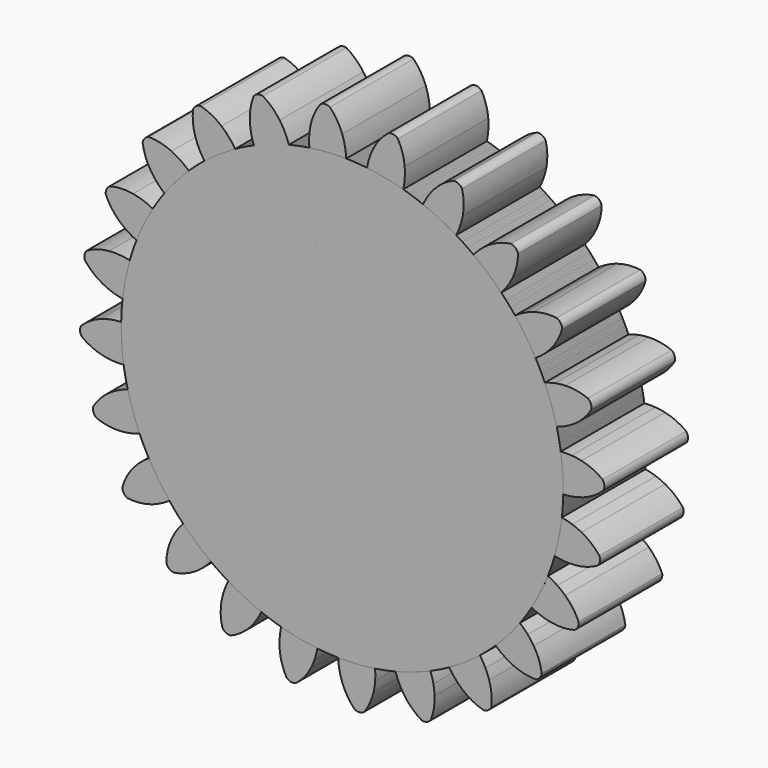
from build123d import *

# Parameters (mm, degrees)
F1_DEPTH = 1
F2_COUNT = 24
F2_ANGLE = 345


with BuildPart() as f1:
    # F0 (on Front) → F1 (new body)
    with BuildSketch(Plane.XZ):
        with BuildLine():
            ThreePointArc((-0.314005, 2.091561), (-1.380055, -1.602708), (2.115, 0))
            ThreePointArc((2.115, 0), (1.509016, 1.481923), (0.038315, 2.114653))
            ThreePointArc((0.038315, 2.114653), (-0.138328, 2.110472), (-0.314005, 2.091561))
        make_face()
        with BuildLine():
            ThreePointArc((-0.314005, 2.091561), (-0.138328, 2.110472), (0.038315, 2.114653))
            ThreePointArc((0.038315, 2.114653), (0.0268, 2.213826), (0, 2.31))
            Line((0, 2.31), (-0.315279, 2.195248))
            ThreePointArc((-0.315279, 2.195248), (-0.316746, 2.143378), (-0.314005, 2.091561))
        make_face()
        with BuildLine():
            Line((-0.315279, 2.195248), (0, 2.31))
            ThreePointArc((0, 2.31), (-0.048916, 2.409854), (-0.117686, 2.497228))
            ThreePointArc((-0.117686, 2.497228), (-0.164422, 2.508596), (-0.209274, 2.491225))
            ThreePointArc((-0.209274, 2.491225), (-0.266052, 2.395622), (-0.301516, 2.290238))
            ThreePointArc((-0.301516, 2.290238), (-0.310181, 2.243001), (-0.315279, 2.195248))
        make_face()
    extrude(amount=F1_DEPTH)


with BuildPart() as f2_1:
    # F2: instance of F1
    add(f1.part.rotate(Axis((0, 0, 0), (0, 1, 0)), 1 * F2_ANGLE / (F2_COUNT - 1)))


with BuildPart() as f2_2:
    # F2: instance of F1
    add(f1.part.rotate(Axis((0, 0, 0), (0, 1, 0)), 2 * F2_ANGLE / (F2_COUNT - 1)))


with BuildPart() as f2_3:
    # F2: instance of F1
    add(f1.part.rotate(Axis((0, 0, 0), (0, 1, 0)), 3 * F2_ANGLE / (F2_COUNT - 1)))


with BuildPart() as f2_4:
    # F2: instance of F1
    add(f1.part.rotate(Axis((0, 0, 0), (0, 1, 0)), 4 * F2_ANGLE / (F2_COUNT - 1)))


with BuildPart() as f2_5:
    # F2: instance of F1
    add(f1.part.rotate(Axis((0, 0, 0), (0, 1, 0)), 5 * F2_ANGLE / (F2_COUNT - 1)))


with BuildPart() as f2_6:
    # F2: instance of F1
    add(f1.part.rotate(Axis((0, 0, 0), (0, 1, 0)), 6 * F2_ANGLE / (F2_COUNT - 1)))


with BuildPart() as f2_7:
    # F2: instance of F1
    add(f1.part.rotate(Axis((0, 0, 0), (0, 1, 0)), 7 * F2_ANGLE / (F2_COUNT - 1)))


with BuildPart() as f2_8:
    # F2: instance of F1
    add(f1.part.rotate(Axis((0, 0, 0), (0, 1, 0)), 8 * F2_ANGLE / (F2_COUNT - 1)))


with BuildPart() as f2_9:
    # F2: instance of F1
    add(f1.part.rotate(Axis((0, 0, 0), (0, 1, 0)), 9 * F2_ANGLE / (F2_COUNT - 1)))


with BuildPart() as f2_10:
    # F2: instance of F1
    add(f1.part.rotate(Axis((0, 0, 0), (0, 1, 0)), 10 * F2_ANGLE / (F2_COUNT - 1)))


with BuildPart() as f2_11:
    # F2: instance of F1
    add(f1.part.rotate(Axis((0, 0, 0), (0, 1, 0)), 11 * F2_ANGLE / (F2_COUNT - 1)))


with BuildPart() as f2_12:
    # F2: instance of F1
    add(f1.part.rotate(Axis((0, 0, 0), (0, 1, 0)), 12 * F2_ANGLE / (F2_COUNT - 1)))


with BuildPart() as f2_13:
    # F2: instance of F1
    add(f1.part.rotate(Axis((0, 0, 0), (0, 1, 0)), 13 * F2_ANGLE / (F2_COUNT - 1)))


with BuildPart() as f2_14:
    # F2: instance of F1
    add(f1.part.rotate(Axis((0, 0, 0), (0, 1, 0)), 14 * F2_ANGLE / (F2_COUNT - 1)))


with BuildPart() as f2_15:
    # F2: instance of F1
    add(f1.part.rotate(Axis((0, 0, 0), (0, 1, 0)), 15 * F2_ANGLE / (F2_COUNT - 1)))


with BuildPart() as f2_16:
    # F2: instance of F1
    add(f1.part.rotate(Axis((0, 0, 0), (0, 1, 0)), 16 * F2_ANGLE / (F2_COUNT - 1)))


with BuildPart() as f2_17:
    # F2: instance of F1
    add(f1.part.rotate(Axis((0, 0, 0), (0, 1, 0)), 17 * F2_ANGLE / (F2_COUNT - 1)))


with BuildPart() as f2_18:
    # F2: instance of F1
    add(f1.part.rotate(Axis((0, 0, 0), (0, 1, 0)), 18 * F2_ANGLE / (F2_COUNT - 1)))


with BuildPart() as f2_19:
    # F2: instance of F1
    add(f1.part.rotate(Axis((0, 0, 0), (0, 1, 0)), 19 * F2_ANGLE / (F2_COUNT - 1)))


with BuildPart() as f2_20:
    # F2: instance of F1
    add(f1.part.rotate(Axis((0, 0, 0), (0, 1, 0)), 20 * F2_ANGLE / (F2_COUNT - 1)))


with BuildPart() as f2_21:
    # F2: instance of F1
    add(f1.part.rotate(Axis((0, 0, 0), (0, 1, 0)), 21 * F2_ANGLE / (F2_COUNT - 1)))


with BuildPart() as f2_22:
    # F2: instance of F1
    add(f1.part.rotate(Axis((0, 0, 0), (0, 1, 0)), 22 * F2_ANGLE / (F2_COUNT - 1)))


with BuildPart() as f2_23:
    # F2: instance of F1
    add(f1.part.rotate(Axis((0, 0, 0), (0, 1, 0)), 23 * F2_ANGLE / (F2_COUNT - 1)))


solid = Compound([f1.part, f2_1.part, f2_2.part, f2_3.part, f2_4.part, f2_5.part, f2_6.part, f2_7.part, f2_8.part, f2_9.part, f2_10.part, f2_11.part, f2_12.part, f2_13.part, f2_14.part, f2_15.part, f2_16.part, f2_17.part, f2_18.part, f2_19.part, f2_20.part, f2_21.part, f2_22.part, f2_23.part])
